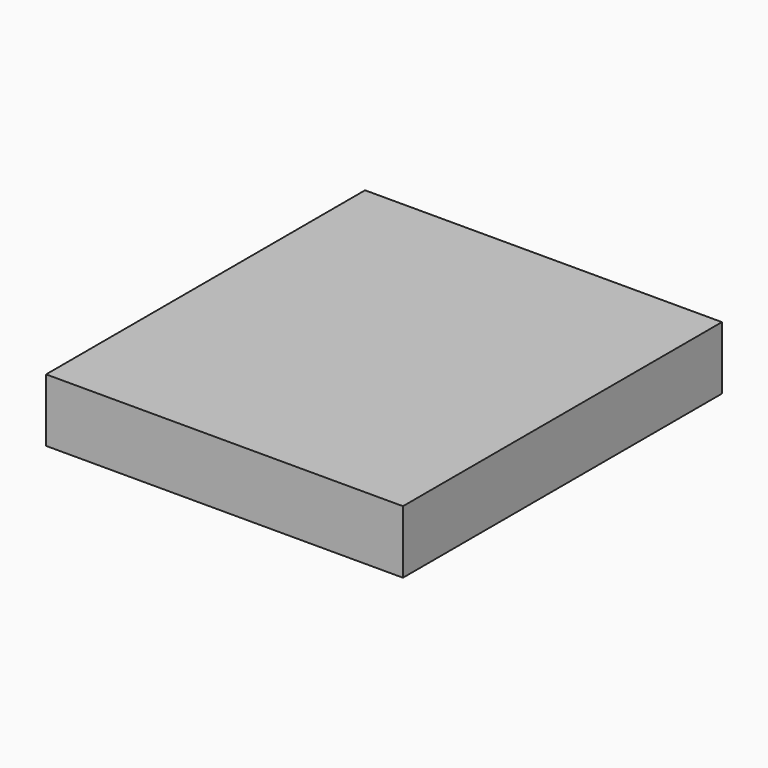
from build123d import *

# Parameters (mm, degrees)
F0_W      = 74.833855
F0_H      = 83.604451
F1_DEPTH  = 9.398
F1_FACE_W = 74.833856
F1_FACE_H = 83.604452
F2_DEPTH  = 13.208


with BuildPart() as f1:
    # F0 (on Top) → F1 (new body)
    with BuildSketch(Plane.XY):
        with Locations((-78.760765, -10.790306)):
            Rectangle(F0_W, F0_H)
    extrude(amount=F1_DEPTH)

    # F1_face (on face) → F2 (join)
    with BuildSketch(Plane(origin=(-78.760765, -10.790305, 9.398), x_dir=(1, 0, 0), z_dir=(0, 0, 1))):
        Rectangle(F1_FACE_W, F1_FACE_H)
    extrude(amount=-F2_DEPTH)


solid = f1.part
